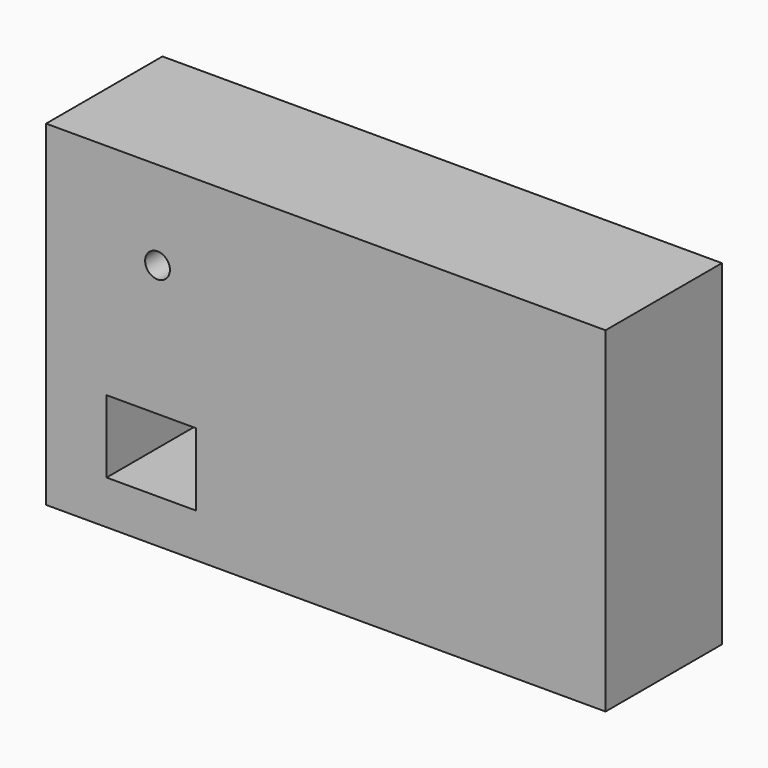
from build123d import *

# Parameters (mm, degrees)
F0_W        = 127
F0_H        = 76.2
F1_DEPTH    = 3.81
F2_R        = 2.813188
F3_DEPTH    = 25.4
F4_W        = 20.256868
F4_H        = 16.464486
F5_DEPTH    = 101.6
F6_W        = 127
F6_H        = 76.2
F6_W_2      = 20.256868
F6_H_2      = 16.464486
F6_R        = 2.813188
F1_FACE_W   = 127
F1_FACE_H   = 76.2
F1_FACE_W_2 = 20.256868
F1_FACE_H_2 = 16.464486
F1_FACE_R   = 2.813188
F7_DEPTH    = 25.4


with BuildPart() as f1:
    # F0 (on Front) → F1 (new body, symmetric)
    with BuildSketch(Plane.XZ):
        Rectangle(F0_W, F0_H)
    extrude(amount=F1_DEPTH, both=True)

    # F2 (on face) → F3 (cut)
    with BuildSketch(Plane.XZ.offset(3.81)):
        with Locations((-38.201306, 17.990688)):
            Circle(F2_R)
    extrude(amount=-F3_DEPTH, mode=Mode.SUBTRACT)

    # F4 (on face) → F5 (cut)
    with BuildSketch(Plane.XZ.offset(3.81)):
        with Locations((-39.635011, -19.933127)):
            Rectangle(F4_W, F4_H)
    extrude(amount=-F5_DEPTH, mode=Mode.SUBTRACT)

    # F6 (on face) + F1_face (on face) → F7 (join)
    with BuildSketch(Plane.XZ.offset(3.81)):
        with BuildLine():
            ThreePointArc((-14.394957, 8.691607), (-8.89384, 14.36516), (-3.220287, 8.864043))
            Line((-3.220287, 8.864043), (-0.426287, 8.864043))
            Line((-0.426287, 8.864043), (-0.426287, 10.68467))
            Line((-0.426287, 10.68467), (-1.648593, 10.68467))
            ThreePointArc((-1.648593, 10.68467), (-8.896568, 16.185919), (-16.01037, 10.512235))
            Line((-16.01037, 10.512235), (-17.188957, 10.512235))
            Line((-17.188957, 10.512235), (-17.188957, 8.691607))
            Line((-17.188957, 8.691607), (-14.394957, 8.691607))
        make_face()
        Rectangle(F6_W, F6_H)
        with Locations((-39.635011, -19.933127)):
            Rectangle(F6_W_2, F6_H_2, mode=Mode.SUBTRACT)
        with Locations((-38.201306, 17.990688)):
            Circle(F6_R, mode=Mode.SUBTRACT)
        with BuildLine():
            Line((-0.426287, 8.864043), (-3.220287, 8.864043))
            ThreePointArc((-3.220287, 8.864043), (-8.89384, 14.36516), (-14.394957, 8.691607))
            Line((-14.394957, 8.691607), (-17.188957, 8.691607))
            Line((-17.188957, 8.691607), (-17.188957, 10.512235))
            Line((-17.188957, 10.512235), (-16.01037, 10.512235))
            ThreePointArc((-16.01037, 10.512235), (-8.896568, 16.185919), (-1.648593, 10.68467))
            Line((-1.648593, 10.68467), (-0.426287, 10.68467))
            Line((-0.426287, 10.68467), (-0.426287, 8.864043))
        make_face(mode=Mode.SUBTRACT)
    with BuildSketch(Plane.XZ.offset(3.81)):
        Rectangle(F1_FACE_W, F1_FACE_H)
        with Locations((-39.635011, -19.933127)):
            Rectangle(F1_FACE_W_2, F1_FACE_H_2, mode=Mode.SUBTRACT)
        with Locations((-38.201306, 17.990688)):
            Circle(F1_FACE_R, mode=Mode.SUBTRACT)
        Rectangle(F1_FACE_W, F1_FACE_H)
        with Locations((-39.635011, -19.933127)):
            Rectangle(F1_FACE_W_2, F1_FACE_H_2, mode=Mode.SUBTRACT)
        with Locations((-38.201306, 17.990688)):
            Circle(F1_FACE_R, mode=Mode.SUBTRACT)
    extrude(amount=F7_DEPTH)


solid = f1.part
